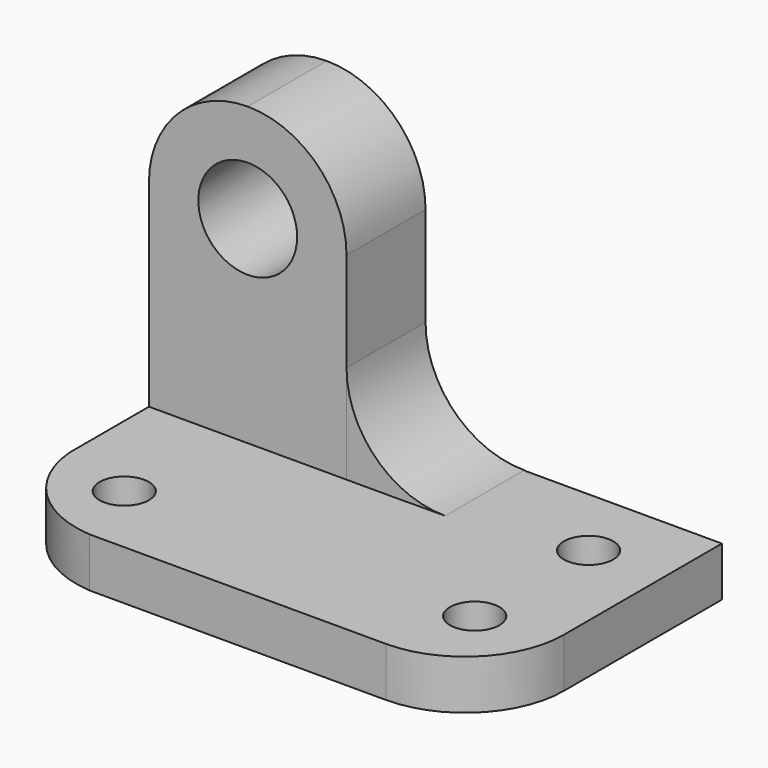
from build123d import *

# Parameters (mm, degrees)
F1_DEPTH = 6.35
F2_R     = 3.175
F3_DEPTH = 6.35
F6_DEPTH = 12.7
F7_R     = 6.35
F8_DEPTH = 12.7


with BuildPart() as f1:
    # F0 (on Top) → F1 (new body)
    with BuildSketch(Plane.XY):
        with BuildLine():
            Line((63.5, 38.1), (0, 38.1))
            Line((0, 38.1), (0, 12.7))
            ThreePointArc((0, 12.7), (4.0025969694, 4.0025969694), (12.7, 0))
            Line((12.7, 0), (50.8, 0))
            ThreePointArc((50.8, 0), (59.7802561211, 3.7197438789), (63.5, 12.7))
            Line((63.5, 12.7), (63.5, 38.1))
        make_face()
    extrude(amount=F1_DEPTH)

    # F2 (on face) → F3 (cut)
    with BuildSketch(Plane.XY.offset(6.35)):
        with Locations((9.525, 9.525)):
            Circle(F2_R)
        with Locations((53.975, 10.2775470457)):
            Circle(F2_R)
        with Locations((53.975, 28.575)):
            Circle(F2_R)
    extrude(amount=-F3_DEPTH, mode=Mode.SUBTRACT)


with BuildPart() as f6:
    # F5 (on face) → F6 (new body)
    with BuildSketch(Plane(origin=(0, 38.1, 0), x_dir=(-1, 0, 0), z_dir=(0, 1, 0))):
        with BuildLine():
            Line((-31.7500000001, 6.35), (-25.4, 6.35))
            Line((-25.4, 6.35), (-25.4, 19.0102830149))
            ThreePointArc((-25.4, 19.0102830149), (-29.1246641911, 10.058140301), (-38.1, 6.3897169851))
            Line((-38.1, 6.3897169851), (-31.7500000001, 6.35))
        make_face()
    extrude(amount=-F6_DEPTH)


with BuildPart() as f6b:
    # F4 (on face) → F6, piece 2 (new body)
    with BuildSketch(Plane(origin=(0, 38.1, 0), x_dir=(-1, 0, 0), z_dir=(0, 1, 0))):
        with BuildLine():
            Line((-25.4, 6.35), (0, 6.35))
            Line((0, 6.35), (0, 31.75))
            ThreePointArc((0, 31.75), (-3.7197438789, 40.7302561211), (-12.7, 44.45))
            ThreePointArc((-12.7, 44.45), (-21.6802561211, 40.7302561211), (-25.4, 31.75))
            Line((-25.4, 31.75), (-25.4, 6.35))
        make_face()
    extrude(amount=-F6_DEPTH)

    # F7 (on face) → F8 (cut)
    with BuildSketch(Plane.XZ.offset(-25.4)):
        with Locations((12.7, 31.75)):
            Circle(F7_R)
    extrude(amount=-F8_DEPTH, mode=Mode.SUBTRACT)


solid = Compound([f1.part, f6.part, f6b.part])
